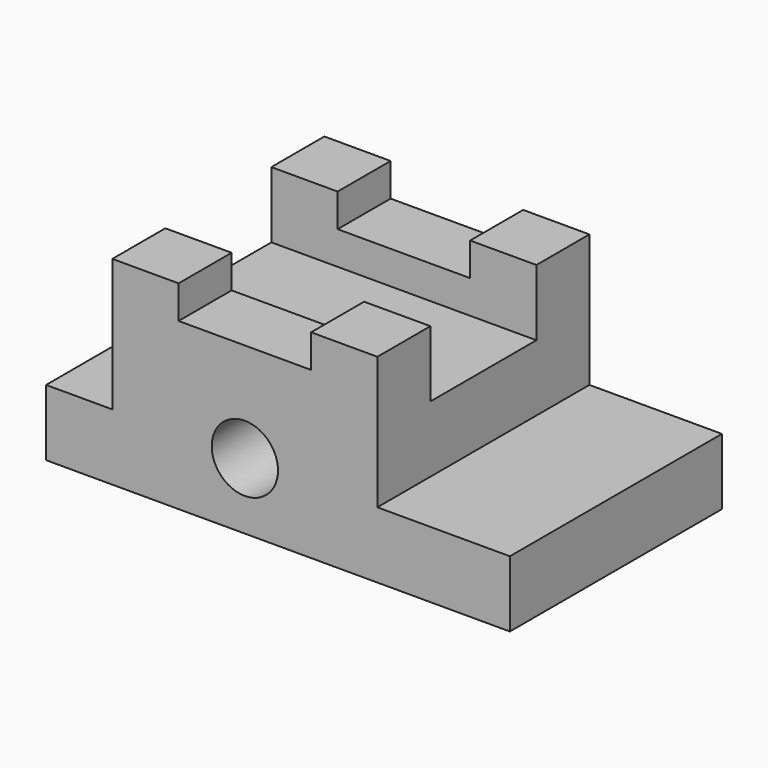
from build123d import *

# Parameters (mm, degrees)
F0_W      = 88.9
F0_H      = 38.1
F1_DEPTH  = 50.8
F2_W      = 12.7
F2_H      = 50.8
F3_DEPTH  = 25.4
F4_W      = 25.4
F4_H      = 50.8
F5_DEPTH  = 25.4
F6_R      = 6.35
F7_DEPTH  = 50.801
F8_W      = 25.4
F8_H      = 12.7
F9_DEPTH  = 63.501
F10_W     = 25.4
F10_H     = 6.35
F11_DEPTH = 12.7
F12_W     = 25.4
F12_H     = 6.35
F13_DEPTH = 12.7


with BuildPart() as f1:
    # F0 (on Front) → F1 (new body)
    with BuildSketch(Plane.XZ):
        Rectangle(F0_W, F0_H)
    extrude(amount=F1_DEPTH)

    # F2 (on face) → F3 (cut)
    with BuildSketch(Plane.XY.offset(19.05)):
        with Locations((-38.1, -25.4)):
            Rectangle(F2_W, F2_H)
    extrude(amount=-F3_DEPTH, mode=Mode.SUBTRACT)

    # F4 (on face) → F5 (cut)
    with BuildSketch(Plane.XY.offset(19.05)):
        with Locations((31.75, -25.4)):
            Rectangle(F4_W, F4_H)
    extrude(amount=-F5_DEPTH, mode=Mode.SUBTRACT)

    # F6 (on face) → F7 (cut, through all)
    with BuildSketch(Plane.XZ.offset(50.8)):
        with Locations((-6.35, -6.35)):
            Circle(F6_R)
    extrude(amount=-F7_DEPTH, mode=Mode.SUBTRACT)

    # F8 (on face) → F9 (cut, through all)
    with BuildSketch(Plane.YZ.offset(19.05)):
        with Locations((-25.4, 12.7)):
            Rectangle(F8_W, F8_H)
    extrude(amount=-F9_DEPTH, mode=Mode.SUBTRACT)

    # F10 (on face) → F11 (cut)
    with BuildSketch(Plane.XZ.offset(50.8)):
        with Locations((-6.35, 15.875)):
            Rectangle(F10_W, F10_H)
    extrude(amount=-F11_DEPTH, mode=Mode.SUBTRACT)

    # F12 (on face) → F13 (cut)
    with BuildSketch(Plane(origin=(0, 0, 0), x_dir=(-1, 0, 0), z_dir=(0, 1, 0))):
        with Locations((6.35, 15.875)):
            Rectangle(F12_W, F12_H)
    extrude(amount=-F13_DEPTH, mode=Mode.SUBTRACT)


solid = f1.part
